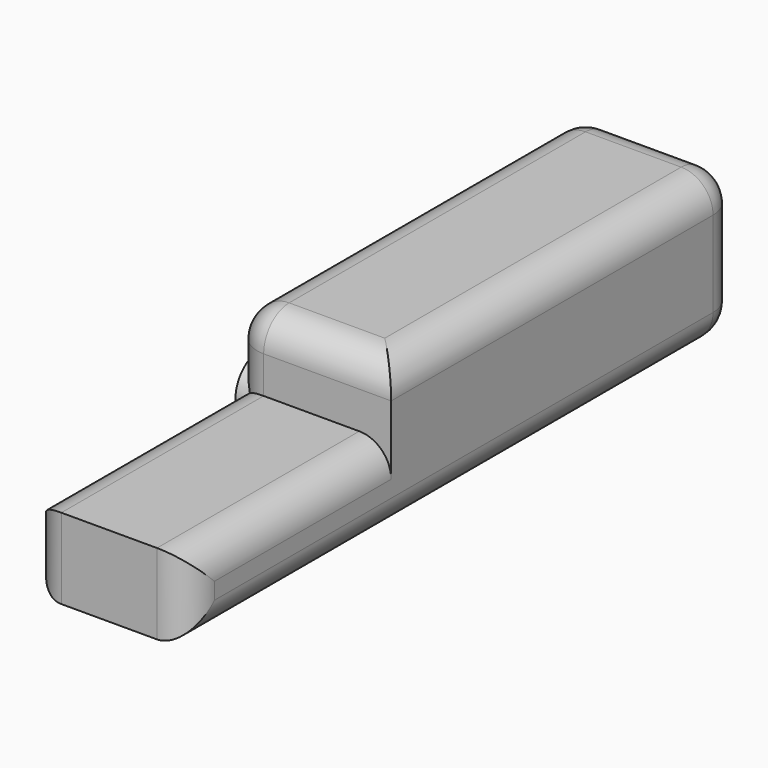
from build123d import *

# Parameters (mm, degrees)
F1_DEPTH = 25.4
F2_R     = 5.08
F3_R     = 6.157745
F3_W     = 0.458606
F3_H     = 2.747152
F3_R_2   = 4.937025
F4_DEPTH = 25.4


with BuildPart() as f1:
    # F0 (on Right) → F1 (new body)
    with BuildSketch(Plane.YZ):
        Polygon((1.631016, 33.007801), (-38.663846, 33.007801), (-38.663846, 20.186709), (70.824213, 20.186709), (70.824213, 43.99731), (55.357497, 43.99731), (1.631016, 43.99731), align=None)
    extrude(amount=F1_DEPTH)

    # F2
    f2_edges = [f1.edges().sort_by_distance(p)[0] for p in [
        (25.4, 36.227615, 43.99731),
        (25.4, -18.516415, 33.007801),
        (12.7, 1.631016, 43.99731),
        (0, -18.516415, 33.007801),
        (25.4, -38.663846, 26.597255),
        (0, -38.663846, 26.597255),
        (25.4, 16.080184, 20.186709),
        (0, 16.080184, 20.186709),
        (0, 70.824213, 32.09201),
        (0, 36.227615, 43.99731),
        (0, 1.631016, 38.502555),
        (12.7, 70.824213, 20.186709),
        (12.7, 70.824213, 43.99731),
        (25.4, 70.824213, 32.09201),
    ]]
    fillet(f2_edges, radius=F2_R)

    # F3 (on face) → F4 (join)
    with BuildSketch(Plane.YZ.offset(25.4)):
        with Locations((56.599278, 32.443203)):
            Circle(F3_R)
        with Locations((56.828581, 31.069627)):
            Rectangle(F3_W, F3_H, mode=Mode.SUBTRACT)
        with Locations((7.300105, 30.641174)):
            Circle(F3_R_2)
    extrude(amount=-F4_DEPTH)


solid = f1.part
